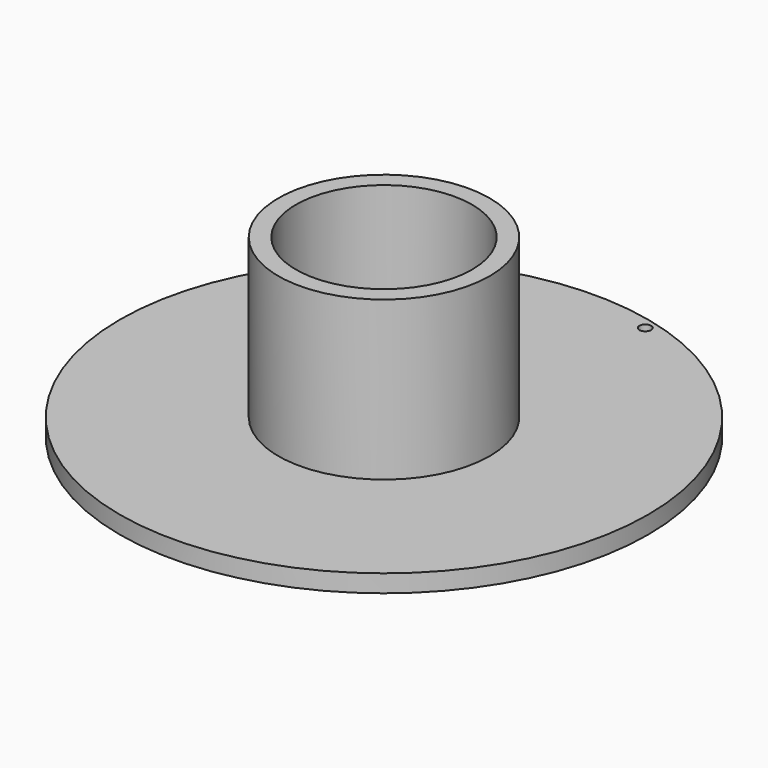
from build123d import *

# Parameters (mm, degrees)
F0_R     = 18
F0_R_2   = 15
F1_DEPTH = 30
F0_R_3   = 45
F2_DEPTH = 3
F3_R     = 1
F4_DEPTH = 32.8
F5_DEPTH = 25


with BuildPart() as f1:
    # F0 (on Top) → F1 (new body)
    with BuildSketch(Plane.XY):
        Circle(F0_R)
        Circle(F0_R_2, mode=Mode.SUBTRACT)
    extrude(amount=F1_DEPTH)

    # F0 (on Top) → F2 (join)
    with BuildSketch(Plane.XY):
        Circle(F0_R_3)
        Circle(F0_R, mode=Mode.SUBTRACT)
    extrude(amount=F2_DEPTH)

    # F3 (on face) → F4 (cut)
    with BuildSketch(Plane.XY.offset(3)):
        with Locations((3.380115, 18.891523)):
            Circle(F3_R)
    extrude(amount=-F4_DEPTH, mode=Mode.SUBTRACT)

    # F3 (on face) → F5 (cut)
    with BuildSketch(Plane.XY.offset(3)):
        with Locations((3.380115, 18.891523)):
            Circle(F3_R)
        with Locations((11.080593, 41.789821)):
            Circle(F3_R)
    extrude(amount=-F5_DEPTH, mode=Mode.SUBTRACT)


solid = f1.part
